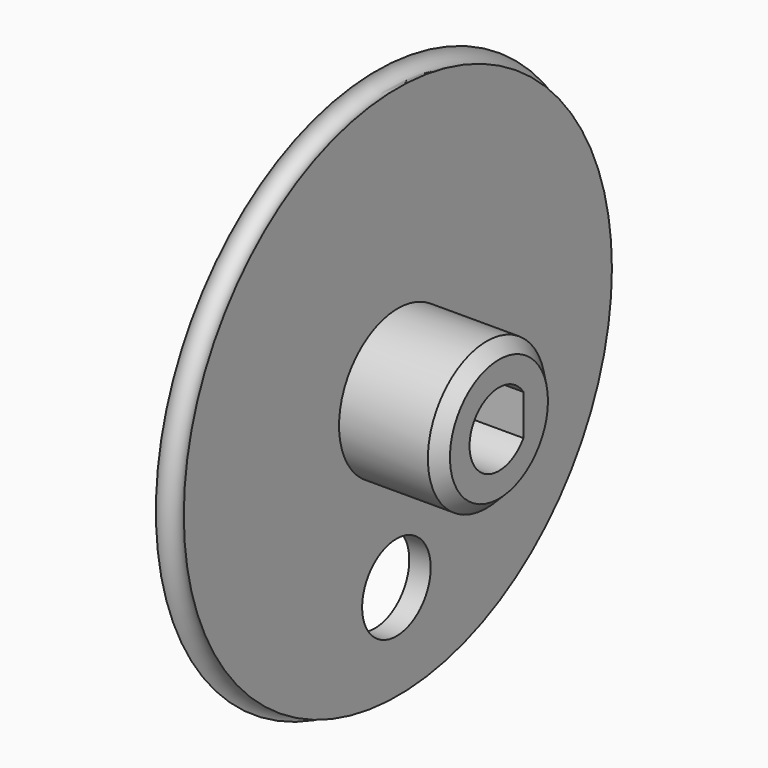
from build123d import *

# Parameters (mm, degrees)
POCKET_DEPTH    = 10.001
CHAMFER_SIZE    = 1
SKETCH002_R     = 3.5
POCKET001_DEPTH = 5


with BuildPart() as part:
    # Sketch → Revolution (revolve)
    with BuildSketch(Plane.XY):
        with BuildLine():
            Line((0, 0), (0, 22.5))
            ThreePointArc((0, 22.5), (0.646447, 21.564586), (1.75, 21.838562))
            Line((1.75, 6), (1.75, 21.838562))
            Line((10, 6), (1.75, 6))
            Line((10, 0), (10, 6))
            Line((0, 0), (10, 0))
        make_face()
    revolve(axis=Axis((0, 0, 0), (1, 0, 0)))

    # Sketch001 (on Face5 of Revolution) → Pocket (cut, through all)
    with BuildSketch(Plane.YZ.offset(10)):
        with BuildLine():
            ThreePointArc((2.5, 1.658312), (-3, 0), (2.5, -1.658312))
            Line((2.5, 1.658312), (2.5, -1.658312))
        make_face()
    extrude(amount=-POCKET_DEPTH, mode=Mode.SUBTRACT)

    # Chamfer
    chamfer_edges = [part.edges().sort_by_distance(p)[0] for p in [
        (10, -6, 0),
    ]]
    chamfer(chamfer_edges, length=CHAMFER_SIZE)

    # Sketch002 (on Face6 of Chamfer) → Pocket001 (cut)
    with BuildSketch(Plane(origin=(0, 0, 0), x_dir=(0, -1, 0), z_dir=(-1, 0, 0))):
        with Locations((0.146868, -14)):
            Circle(SKETCH002_R)
    extrude(amount=-POCKET001_DEPTH, mode=Mode.SUBTRACT)


solid = part.part
